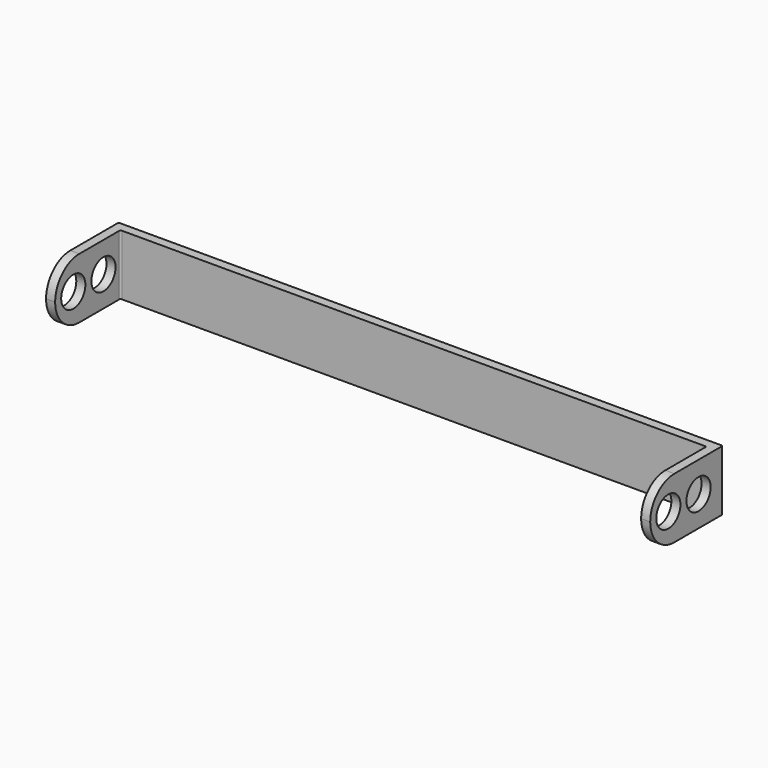
from build123d import *

# Parameters (mm, degrees)
F1_DEPTH = 40
F2_R     = 10
F3_DEPTH = 400.001


with BuildPart() as f1:
    # F0 (on Top) → F1 (new body)
    with BuildSketch(Plane.XY):
        with BuildLine():
            Line((202.315605, 14.572916), (-195.684395, 14.572916))
            ThreePointArc((-195.684395, 14.572916), (-196.391502, 14.280022), (-196.684395, 13.572916))
            Line((-196.684395, 13.572916), (-196.684395, -45.427084))
            Line((-196.684395, -45.427084), (-190.684395, -45.427084))
            Line((-190.684395, -45.427084), (-190.684395, 7.572916))
            ThreePointArc((-190.684395, 7.572916), (-190.391502, 8.280022), (-189.684395, 8.572916))
            Line((-189.684395, 8.572916), (196.315605, 8.572916))
            ThreePointArc((196.315605, 8.572916), (197.022712, 8.280022), (197.315605, 7.572916))
            Line((197.315605, 7.572916), (197.315605, -45.427084))
            Line((197.315605, -45.427084), (203.315605, -45.427084))
            Line((203.315605, -45.427084), (203.315605, 13.572916))
            ThreePointArc((203.315605, 13.572916), (203.022712, 14.280022), (202.315605, 14.572916))
        make_face()
    extrude(amount=F1_DEPTH)

    # F2 (on face) → F3 (cut, through all)
    with BuildSketch(Plane.YZ.offset(203.315605)):
        with BuildLine():
            Line((-23.139201, 59.691776), (-66.175789, 59.691776))
            Line((-66.175789, 59.691776), (-66.175789, -19.468792))
            Line((-66.175789, -19.468792), (-23.139201, -19.468792))
            Line((-23.139201, -19.468792), (-23.139201, 0))
            Line((-23.139201, 0), (-25.427084, 0))
            ThreePointArc((-25.427084, 0), (-39.56922, 5.857864), (-45.427084, 20))
            ThreePointArc((-45.427084, 20), (-39.56922, 34.142136), (-25.427084, 40))
            Line((-25.427084, 40), (-23.139201, 40))
            Line((-23.139201, 40), (-23.139201, 59.691776))
        make_face()
        with Locations((-30.427084, 20)):
            Circle(F2_R)
        with Locations((-5.427084, 20)):
            Circle(F2_R)
    extrude(amount=-F3_DEPTH, mode=Mode.SUBTRACT)


solid = f1.part
